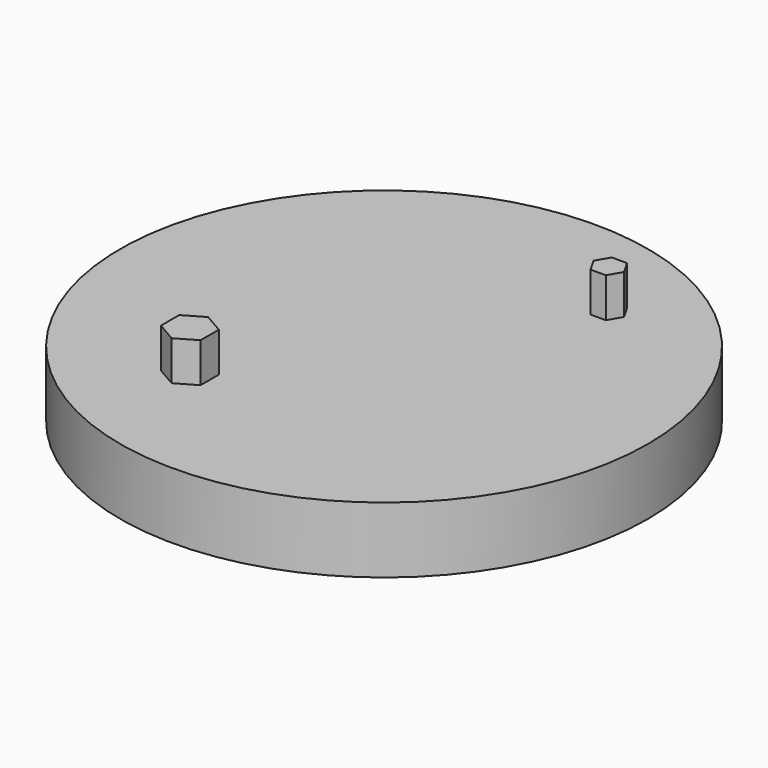
from build123d import *

# Parameters (mm, degrees)
F0_R     = 20
F1_DEPTH = 5
F2_DEPTH = 3


with BuildPart() as f1:
    # F0 (on Top) → F1 (new body)
    with BuildSketch(Plane.XY):
        Circle(F0_R)
        Polygon((-8.380754, -8.925848), (-6.880754, -8.059823), (-5.380754, -8.925848), (-5.380754, -10.657899), (-6.880754, -11.523924), (-8.380754, -10.657899), align=None, mode=Mode.SUBTRACT)
        Polygon((8.723032, 11.823489), (8.145682, 10.823489), (6.990982, 10.823489), (6.413631, 11.823489), (6.990982, 12.823489), (8.145682, 12.823489), align=None, mode=Mode.SUBTRACT)
        Polygon((-5.380754, -8.925848), (-6.880754, -8.059823), (-8.380754, -8.925848), (-8.380754, -10.657899), (-6.880754, -11.523924), (-5.380754, -10.657899), align=None)
        Polygon((6.990982, 10.823489), (8.145682, 10.823489), (8.723032, 11.823489), (8.145682, 12.823489), (6.990982, 12.823489), (6.413631, 11.823489), align=None)
    extrude(amount=-F1_DEPTH)

    # F0 (on Top) → F2 (join)
    with BuildSketch(Plane.XY):
        Polygon((-5.380754, -8.925848), (-6.880754, -8.059823), (-8.380754, -8.925848), (-8.380754, -10.657899), (-6.880754, -11.523924), (-5.380754, -10.657899), align=None)
        Polygon((6.990982, 10.823489), (8.145682, 10.823489), (8.723032, 11.823489), (8.145682, 12.823489), (6.990982, 12.823489), (6.413631, 11.823489), align=None)
    extrude(amount=F2_DEPTH)


solid = f1.part
